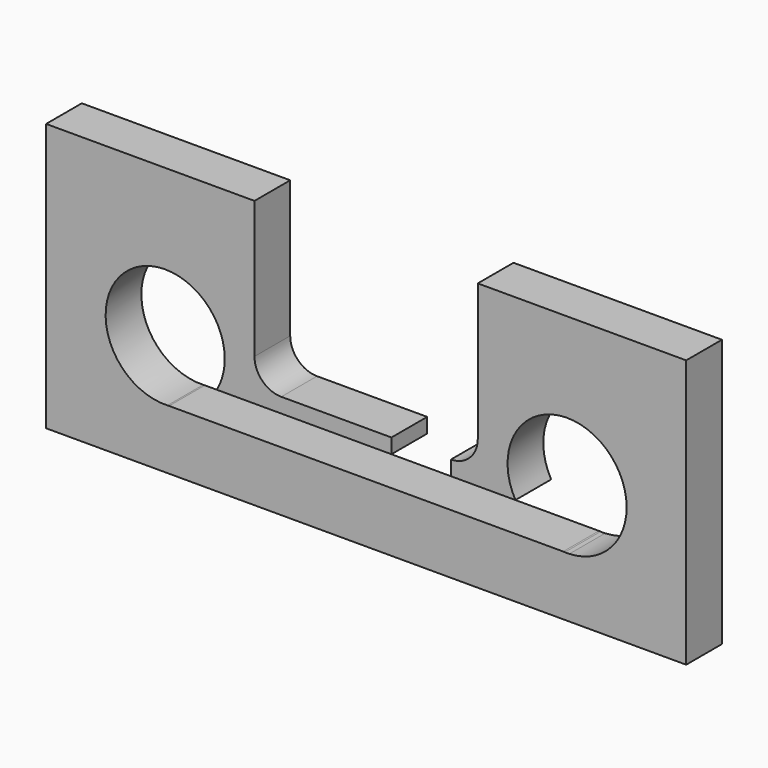
from build123d import *

# Parameters (mm, degrees)
F0_W     = 273.05
F0_H     = 114.3
F1_DEPTH = 19.05
F3_DEPTH = 25.4
F5_DEPTH = 25.4


with BuildPart() as f1:
    # F0 (on Front) → F1 (new body)
    with BuildSketch(Plane.XZ):
        with Locations((136.525, 57.15)):
            Rectangle(F0_W, F0_H)
    extrude(amount=F1_DEPTH)

    # F2 (on face) → F3 (cut)
    with BuildSketch(Plane.XZ.offset(19.05)):
        with BuildLine():
            ThreePointArc((72.8078575524, 38.1187458841), (75.3373142564, 44.2364484398), (76.2, 50.8))
            ThreePointArc((76.2, 50.8), (32.4977854296, 68.4121816315), (51.7756738724, 25.4187458841))
            Line((51.7756738724, 25.4187458841), (64.3298327923, 38.1187458841))
            Line((64.3298327923, 38.1187458841), (72.8078575524, 38.1187458841))
        make_face()
        with BuildLine():
            ThreePointArc((200.2421424476, 38.1187458841), (209.1205225089, 29.0565683295), (221.2743261276, 25.4187458841))
            Line((221.2743261276, 25.4187458841), (223.2256738724, 25.4187458841))
            Line((223.2256738724, 25.4187458841), (207.7043950558, 38.1187458841))
            Line((207.7043950558, 38.1187458841), (200.2421424476, 38.1187458841))
        make_face()
        with BuildLine():
            Line((223.2256738724, 25.4187458841), (221.2743261276, 25.4187458841))
            ThreePointArc((221.2743261276, 25.4187458841), (222.25, 25.4), (223.2256738724, 25.4187458841))
        make_face()
        with BuildLine():
            Line((64.3298327923, 38.1187458841), (51.7756738724, 25.4187458841))
            ThreePointArc((51.7756738724, 25.4187458841), (63.9294774911, 29.0565683295), (72.8078575524, 38.1187458841))
            Line((72.8078575524, 38.1187458841), (64.3298327923, 38.1187458841))
        make_face()
        with BuildLine():
            ThreePointArc((247.65, 50.8), (215.6864484398, 75.3373142564), (200.2421424476, 38.1187458841))
            Line((200.2421424476, 38.1187458841), (207.7043950558, 38.1187458841))
            Line((207.7043950558, 38.1187458841), (223.2256738724, 25.4187458841))
            ThreePointArc((223.2256738724, 25.4187458841), (240.5522145704, 33.1878183685), (247.65, 50.8))
        make_face()
        with BuildLine():
            Line((100.33, 44.45), (151.0539650917, 44.45))
            Line((151.0539650917, 44.45), (172.72, 44.45))
            ThreePointArc((172.72, 44.45), (180.802230509, 47.797769491), (184.15, 55.88))
            Line((184.15, 55.88), (184.15, 114.3))
            Line((184.15, 114.3), (88.9, 114.3))
            Line((88.9, 114.3), (88.9, 55.88))
            ThreePointArc((88.9, 55.88), (92.247769491, 47.797769491), (100.33, 44.45))
        make_face()
    extrude(amount=-F3_DEPTH, mode=Mode.SUBTRACT)

    # F4 (on face) → F5 (cut)
    with BuildSketch(Plane.XZ.offset(19.05)):
        with BuildLine():
            Line((172.72, 44.45), (147.32, 44.45))
            Line((147.32, 44.45), (147.32, 38.1542206768))
            Line((147.32, 38.1542206768), (72.8282606056, 38.1542206768))
            ThreePointArc((72.8282606056, 38.1542206768), (64.2384219855, 29.2461415394), (52.4587557079, 25.4542206768))
            Line((52.4587557079, 25.4542206768), (220.5912442921, 25.4542206768))
            ThreePointArc((220.5912442921, 25.4542206768), (208.8115780145, 29.2461415394), (200.2217393944, 38.1542206768))
            Line((200.2217393944, 38.1542206768), (172.72, 38.1542206768))
            Line((172.72, 38.1542206768), (172.72, 44.45))
        make_face()
    extrude(amount=-F5_DEPTH, mode=Mode.SUBTRACT)


solid = f1.part
